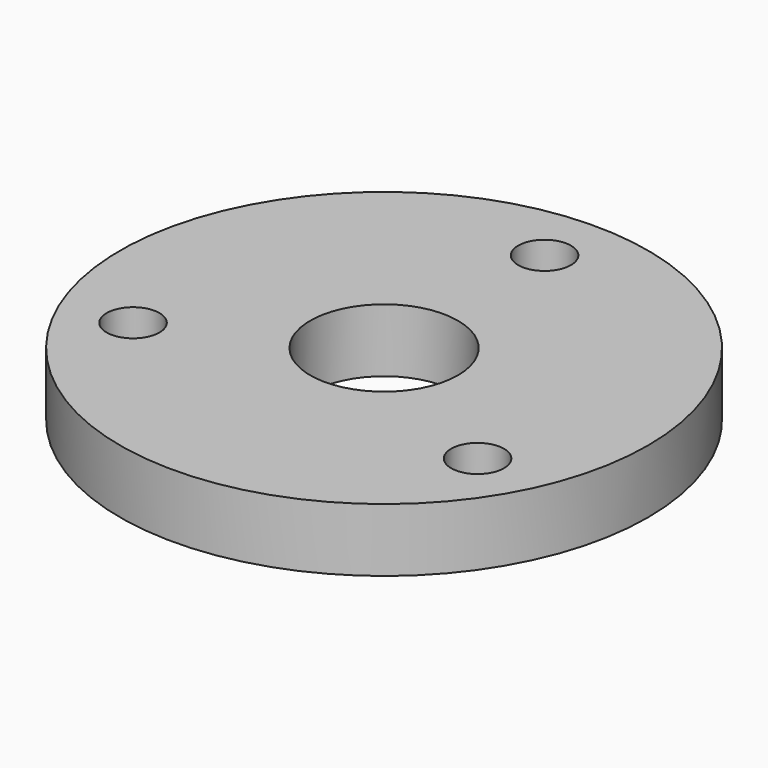
from build123d import *

# Parameters (mm, degrees)
F0_R     = 25
F0_R_2   = 2.5
F0_R_3   = 7
F1_DEPTH = 6


with BuildPart() as f1:
    # F0 (on Top) → F1 (new body)
    with BuildSketch(Plane.XY):
        Circle(F0_R)
        with BuildLine():
            ThreePointArc((-14.780477, -7.333996), (-14.585948, -7.874535), (-14.519943, -8.445207))
            ThreePointArc((-14.519943, -8.445207), (-19.453939, -9.01588), (-14.780477, -7.333996))
        make_face(mode=Mode.SUBTRACT)
        with Locations((16.454483, -9.5)):
            Circle(F0_R_2, mode=Mode.SUBTRACT)
        Circle(F0_R_3, mode=Mode.SUBTRACT)
        with Locations((0, 19)):
            Circle(F0_R_2, mode=Mode.SUBTRACT)
    extrude(amount=F1_DEPTH)


solid = f1.part
